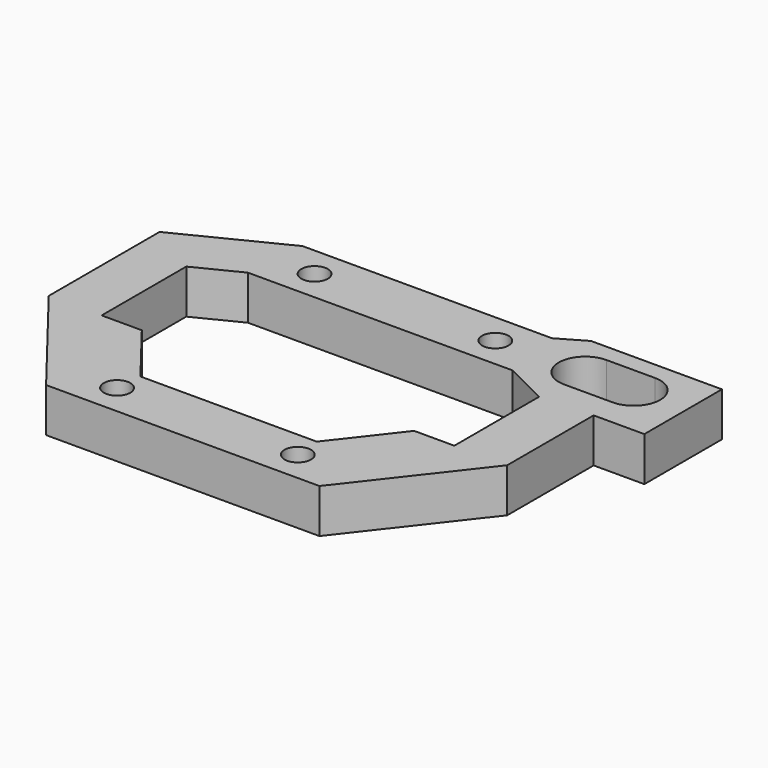
from build123d import *

# Parameters (mm, degrees)
F0_R     = 1.5
F1_DEPTH = 5


with BuildPart() as f1:
    # F0 (on Top) → F1 (new body)
    with BuildSketch(Plane.XY):
        Polygon((-26, -4), (-15.5, -17.5), (15.5, -17.5), (26, -4), (26, 8.25), (31.75, 8.25), (31.75, 19.25), (16.910254, 19.25), (13.879165, 17.5), (-14.416408, 17.5), (-26, 11.708204), align=None)
        with Locations((-10.25, -14)):
            Circle(F0_R, mode=Mode.SUBTRACT)
        Polygon((-20, -4), (-20, 8), (-15, 10.5), (15, 10.5), (20, 8), (20, -4), (15.444444, -4), (10, -11), (-10, -11), (-15.444444, -4), align=None, mode=Mode.SUBTRACT)
        with Locations((10.25, -14)):
            Circle(F0_R, mode=Mode.SUBTRACT)
        with Locations((-10.25, 14)):
            Circle(F0_R, mode=Mode.SUBTRACT)
        with Locations((10.25, 14)):
            Circle(F0_R, mode=Mode.SUBTRACT)
        with BuildLine():
            ThreePointArc((20.25, 11.25), (17.25, 14.25), (20.25, 17.25))
            Line((20.25, 17.25), (25.75, 17.25))
            ThreePointArc((25.75, 17.25), (28.75, 14.25), (25.75, 11.25))
            Line((25.75, 11.25), (20.25, 11.25))
        make_face(mode=Mode.SUBTRACT)
    extrude(amount=F1_DEPTH)


solid = f1.part
